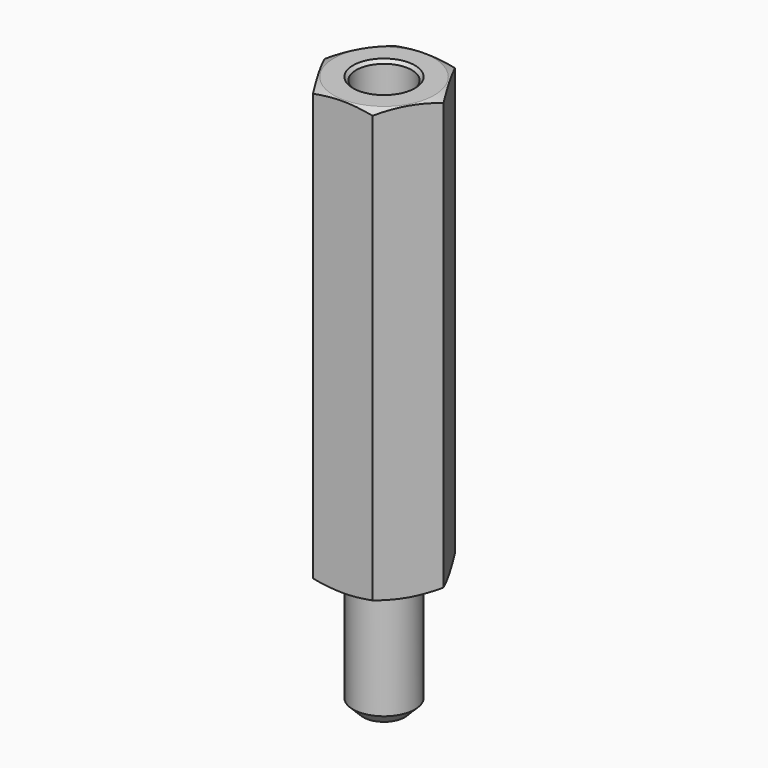
from build123d import *

# Parameters (mm, degrees)
F0_R           = 1.5
F1_DEPTH       = 6
F3_DEPTH       = 21
F5_D           = 2.7
F5_DEPTH       = 9.5
F5_CSINK_D     = 3
F5_CSINK_ANGLE = 90
F5_TIP         = 0.8111618357
F8_SIZE        = 0.5


with BuildPart() as f1:
    # F0 (on Top) → F1 (new body)
    with BuildSketch(Plane.XY):
        Circle(F0_R)
    extrude(amount=F1_DEPTH)

    # F2 (on face) → F3 (join)
    with BuildSketch(Plane.XY.offset(6)):
        Polygon((-1.443375673, -2.5), (1.443375673, -2.5), (2.8867513459, 0), (1.443375673, 2.5), (-1.443375673, 2.5), (-2.8867513459, 0), align=None)
    extrude(amount=F3_DEPTH)

    # F5
    with Locations(Plane.XY.offset(27)):
        with Locations((0, 0)):
            CounterSinkHole(F5_D / 2, F5_CSINK_D / 2, depth=F5_DEPTH, counter_sink_angle=F5_CSINK_ANGLE)
            with Locations((0, 0, -(F5_DEPTH + F5_TIP / 2))):  # 118° drill point
                Cone(0, F5_D / 2, F5_TIP, mode=Mode.SUBTRACT)

    # F6 (on Front) → F7 (revolve, cut)
    with BuildSketch(Plane.XZ):
        Polygon((-3.6906760422, 6.4588518128), (-3.6906760422, 6), (-2.5, 6), align=None)
        Polygon((-3.6226674233, 26.5411481872), (-2.4319913811, 27), (-3.6226674233, 27), align=None)
    revolve(axis=Axis((0, 0, 14.2609653992), (0, 0, 1)), mode=Mode.SUBTRACT)

    # F8
    f8_edges = [f1.edges().sort_by_distance(p)[0] for p in [
        (-1.5, 0, 0),
    ]]
    chamfer(f8_edges, length=F8_SIZE)


solid = f1.part
